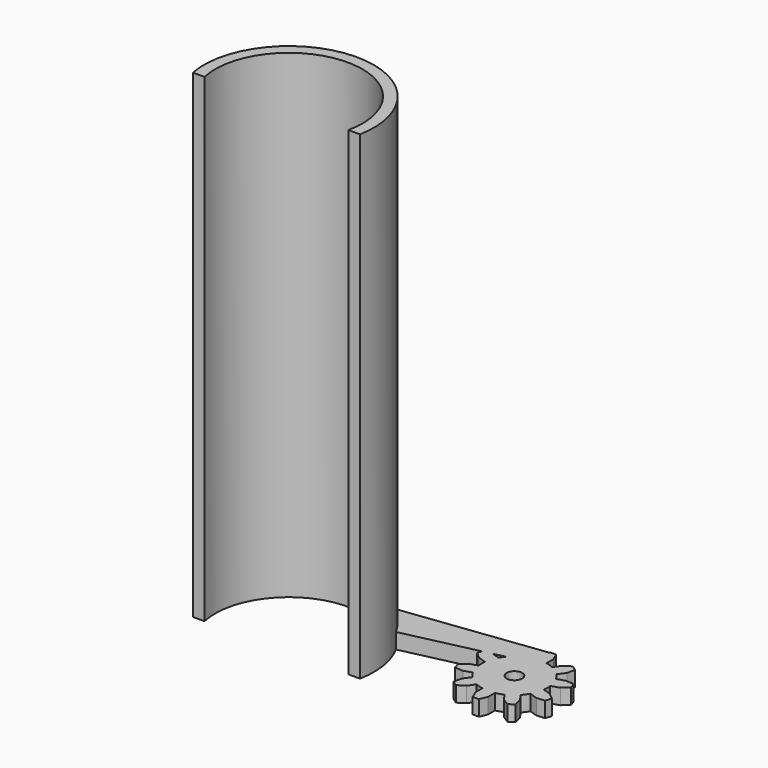
from build123d import *

# Parameters (mm, degrees)
F0_R     = 1
F1_DEPTH = 2
F3_DEPTH = 2
F5_DEPTH = 60


with BuildPart() as f1:
    # F0 (on Top) → F1 (new body)
    with BuildSketch(Plane.XY):
        with BuildLine():
            Line((-3.7516957595, 3.7800597964), (-3.1099091286, 2.8967162808))
            ThreePointArc((-3.1099091286, 2.8967162808), (-3.4383222261, 2.4980873222), (-3.7159556664, 2.0625647832))
            Line((-3.7159556664, 2.0625647832), (-4.7543882487, 2.3999719824))
            Line((-4.7543882487, 2.3999719824), (-5.8175952323, 2.3207077869))
            Line((-5.8175952323, 2.3207077869), (-6.0706112214, 1.5420046428))
            Line((-6.0706112214, 1.5420046428), (-5.2570490283, 0.8529411765))
            Line((-5.2570490283, 0.8529411765), (-4.218616446, 0.5155339773))
            ThreePointArc((-4.218616446, 0.5155339773), (-4.25, 0), (-4.218616446, -0.5155339773))
            Line((-4.218616446, -0.5155339773), (-5.2570490283, -0.8529411765))
            Line((-5.2570490283, -0.8529411765), (-6.0706112214, -1.5420046428))
            Line((-6.0706112214, -1.5420046428), (-5.8175952323, -2.3207077869))
            Line((-5.8175952323, -2.3207077869), (-4.7543882487, -2.3999719824))
            Line((-4.7543882487, -2.3999719824), (-3.7159556664, -2.0625647832))
            ThreePointArc((-3.7159556664, -2.0625647832), (-3.4383222261, -2.4980873222), (-3.1099091286, -2.8967162808))
            Line((-3.1099091286, -2.8967162808), (-3.7516957595, -3.7800597964))
            Line((-3.7516957595, -3.7800597964), (-4.0048600564, -4.8157237097))
            Line((-4.0048600564, -4.8157237097), (-3.3424555973, -5.29698872))
            Line((-3.3424555973, -5.29698872), (-2.4357127539, -4.7361774161))
            Line((-2.4357127539, -4.7361774161), (-1.793926123, -3.8528339005))
            ThreePointArc((-1.793926123, -3.8528339005), (-1.3133222261, -4.0419901943), (-0.8133222261, -4.1714514209))
            Line((-0.8133222261, -4.1714514209), (-0.8133222261, -5.2633240535))
            Line((-0.8133222261, -5.2633240535), (-0.40938847, -6.25))
            Line((-0.40938847, -6.25), (0.40938847, -6.25))
            Line((0.40938847, -6.25), (0.8133222261, -5.2633240535))
            Line((0.8133222261, -5.2633240535), (0.8133222261, -4.1714514209))
            ThreePointArc((0.8133222261, -4.1714514209), (1.3133222261, -4.0419901943), (1.793926123, -3.8528339005))
            Line((1.793926123, -3.8528339005), (2.4357127539, -4.7361774161))
            Line((2.4357127539, -4.7361774161), (3.3424555973, -5.29698872))
            Line((3.3424555973, -5.29698872), (4.0048600564, -4.8157237097))
            Line((4.0048600564, -4.8157237097), (3.7516957595, -3.7800597964))
            Line((3.7516957595, -3.7800597964), (3.1099091286, -2.8967162808))
            ThreePointArc((3.1099091286, -2.8967162808), (3.4383222261, -2.4980873222), (3.7159556664, -2.0625647832))
            Line((3.7159556664, -2.0625647832), (4.7543882487, -2.3999719824))
            Line((4.7543882487, -2.3999719824), (5.8175952323, -2.3207077869))
            Line((5.8175952323, -2.3207077869), (6.0706112214, -1.5420046428))
            Line((6.0706112214, -1.5420046428), (5.2570490283, -0.8529411765))
            Line((5.2570490283, -0.8529411765), (4.218616446, -0.5155339773))
            ThreePointArc((4.218616446, -0.5155339773), (4.25, 0), (4.218616446, 0.5155339773))
            Line((4.218616446, 0.5155339773), (5.2570490283, 0.8529411765))
            Line((5.2570490283, 0.8529411765), (6.0706112214, 1.5420046428))
            Line((6.0706112214, 1.5420046428), (5.8175952323, 2.3207077869))
            Line((5.8175952323, 2.3207077869), (4.7543882487, 2.3999719824))
            Line((4.7543882487, 2.3999719824), (3.7159556664, 2.0625647832))
            ThreePointArc((3.7159556664, 2.0625647832), (3.4383222261, 2.4980873222), (3.1099091286, 2.8967162808))
            Line((3.1099091286, 2.8967162808), (3.7516957595, 3.7800597964))
            Line((3.7516957595, 3.7800597964), (4.0048600564, 4.8157237097))
            Line((4.0048600564, 4.8157237097), (3.3424555973, 5.29698872))
            Line((3.3424555973, 5.29698872), (2.4357127539, 4.7361774161))
            Line((2.4357127539, 4.7361774161), (1.793926123, 3.8528339005))
            ThreePointArc((1.793926123, 3.8528339005), (1.3133222261, 4.0419901943), (0.8133222261, 4.1714514209))
            Line((0.8133222261, 4.1714514209), (0.8133222261, 5.2633240535))
            Line((0.8133222261, 5.2633240535), (0.40938847, 6.25))
            Line((0.40938847, 6.25), (-0.40938847, 6.25))
            Line((-0.40938847, 6.25), (-0.8133222261, 5.2633240535))
            Line((-0.8133222261, 5.2633240535), (-0.8133222261, 4.1714514209))
            ThreePointArc((-0.8133222261, 4.1714514209), (-1.3133222261, 4.0419901943), (-1.793926123, 3.8528339005))
            Line((-1.793926123, 3.8528339005), (-2.4357127539, 4.7361774161))
            Line((-2.4357127539, 4.7361774161), (-3.3424555973, 5.29698872))
            Line((-3.3424555973, 5.29698872), (-4.0048600564, 4.8157237097))
            Line((-4.0048600564, 4.8157237097), (-3.7516957595, 3.7800597964))
        make_face()
        Circle(F0_R, mode=Mode.SUBTRACT)
    extrude(amount=F1_DEPTH)

    # F2 (on face) → F3 (join)
    with BuildSketch(Plane.XY.offset(2)):
        with BuildLine():
            ThreePointArc((-34.3016055682, -7.25), (-24.9889461736, 4.275), (-15.676286779, -7.25))
            Line((-15.676286779, -7.25), (-14.1722923472, -7.25))
            ThreePointArc((-14.1722923472, -7.25), (-14.1248516042, -3.5262108052), (-15.322638709, 0))
            Line((-15.322638709, 0), (-5.8811097025, 2.1252303477))
            Line((-5.8811097025, 2.1252303477), (-5.8175952323, 2.3207077869))
            Line((-5.8175952323, 2.3207077869), (-4.7543882487, 2.3999719824))
            Line((-4.7543882487, 2.3999719824), (-4.7159827656, 2.3874932845))
            Line((-4.7159827656, 2.3874932845), (-3.2717603315, 2.7125789082))
            ThreePointArc((-3.2717603315, 2.7125789082), (-3.1921627336, 2.8058148696), (-3.1099091286, 2.8967162808))
            Line((-3.1099091286, 2.8967162808), (-3.7516957595, 3.7800597964))
            Line((-3.7516957595, 3.7800597964), (-4.0048600564, 4.8157237097))
            Line((-4.0048600564, 4.8157237097), (-3.3424555973, 5.29698872))
            Line((-3.3424555973, 5.29698872), (-2.4357127539, 4.7361774161))
            Line((-2.4357127539, 4.7361774161), (-1.793926123, 3.8528339005))
            ThreePointArc((-1.793926123, 3.8528339005), (-1.3133222261, 4.0419901943), (-0.8133222261, 4.1714514209))
            Line((-0.8133222261, 4.1714514209), (-0.8133222261, 5.2633240535))
            Line((-0.8133222261, 5.2633240535), (-0.4534381538, 6.1424012594))
            Line((-0.4534381538, 6.1424012594), (-18.8133154383, 3.8528339005))
            ThreePointArc((-18.8133154383, 3.8528339005), (-31.0058393909, 3.958528439), (-35.8056, -7.25))
            Line((-35.8056, -7.25), (-34.3016055682, -7.25))
        make_face()
    extrude(amount=-F3_DEPTH)

    # F4 (on face) → F5 (join)
    with BuildSketch(Plane.XY.offset(2)):
        with BuildLine():
            Line((-15.676286779, -7.25), (-14.1722923472, -7.25))
            ThreePointArc((-14.1722923472, -7.25), (-14.1248516042, -3.5262108052), (-15.322638709, 0))
            ThreePointArc((-15.322638709, 0), (-16.8370854198, 2.1356053409), (-18.8133154383, 3.8528339005))
            ThreePointArc((-18.8133154383, 3.8528339005), (-31.0058393909, 3.958528439), (-35.8056, -7.25))
            Line((-35.8056, -7.25), (-34.3016055682, -7.25))
            ThreePointArc((-34.3016055682, -7.25), (-24.9889461736, 4.275), (-15.676286779, -7.25))
        make_face()
    extrude(amount=F5_DEPTH)


solid = f1.part
